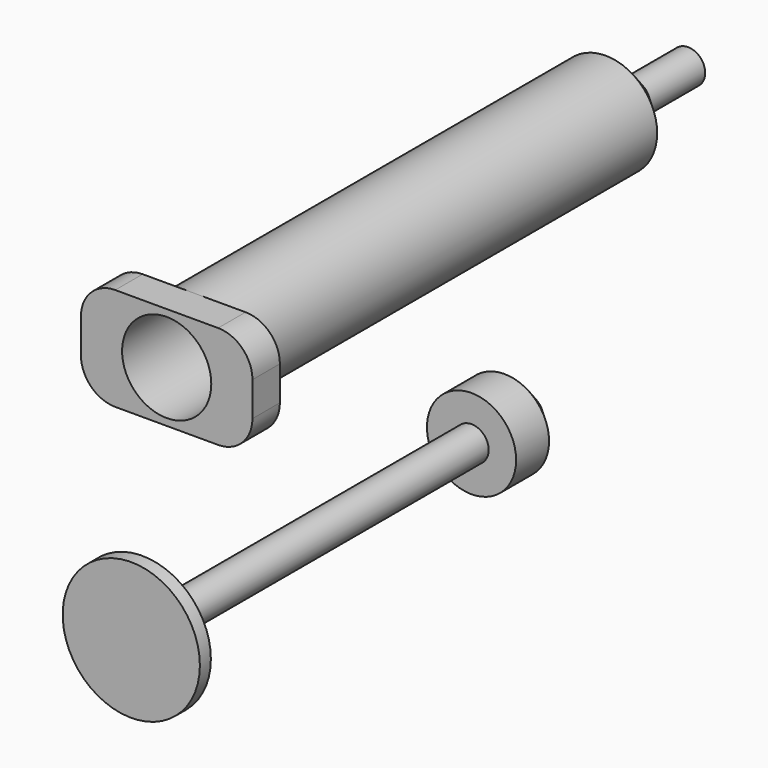
from build123d import *

# Parameters (mm, degrees)
F0_R      = 9.525
F1_DEPTH  = 101.6
F2_SIZE   = 6.35
F3_DEPTH  = 12.7
F4_T      = -1.27
F5_DEPTH  = 25.4
F6_R      = 8.255
F7_DEPTH  = 6.35
F8_R      = 6.35
F9_R      = 8.255
F10_DEPTH = 12.7
F11_R     = 3.175
F12_DEPTH = 76.2
F13_R     = 12.7
F14_DEPTH = 2.54
F15_SIZE  = 5.08


with BuildPart() as f1:
    # F0 (on Front) → F1 (new body)
    with BuildSketch(Plane.XZ):
        Circle(F0_R)
    extrude(amount=-F1_DEPTH)

    # F2
    f2_edges = [f1.edges().sort_by_distance(p)[0] for p in [
        (-9.525, 101.6, 0),
    ]]
    chamfer(f2_edges, length=F2_SIZE)

    # F3 (add): a face of the model
    f3_faces = [f1.faces().sort_by_distance(p)[0] for p in [
        (0, 101.6, 0),
    ]]
    extrude(f3_faces, amount=F3_DEPTH)

    # F4
    f4_openings = [f1.faces().sort_by_distance(p)[0] for p in [
        (0, 0, 0),
    ]]
    offset(amount=F4_T, openings=f4_openings, kind=Kind.INTERSECTION)

    # F5 (cut): a face of the model
    f5_faces = [f1.faces().sort_by_distance(p)[0] for p in [
        (0, 113.03, 0),
    ]]
    extrude(f5_faces, amount=-F5_DEPTH, mode=Mode.SUBTRACT)

    # F6 (on face) → F7 (join)
    with BuildSketch(Plane.XZ):
        with BuildLine():
            Line((0, 9.525), (-15.875, 9.525))
            Line((-15.875, 9.525), (-15.875, -9.525))
            Line((-15.875, -9.525), (0, -9.525))
            ThreePointArc((0, -9.525), (-9.525, 0), (0, 9.525))
        make_face()
        with BuildLine():
            Line((15.875, 9.525), (0, 9.525))
            ThreePointArc((0, 9.525), (6.7351920908, 6.7351920908), (9.525, 0))
            ThreePointArc((9.525, 0), (6.7351920908, -6.7351920908), (0, -9.525))
            Line((0, -9.525), (15.875, -9.525))
            Line((15.875, -9.525), (15.875, 9.525))
        make_face()
        with BuildLine():
            ThreePointArc((9.525, 0), (6.7351920908, 6.7351920908), (0, 9.525))
            ThreePointArc((0, 9.525), (-9.525, 0), (0, -9.525))
            ThreePointArc((0, -9.525), (6.7351920908, -6.7351920908), (9.525, 0))
        make_face()
        Circle(F6_R, mode=Mode.SUBTRACT)
    extrude(amount=F7_DEPTH)

    # F8
    f8_edges = [f1.edges().sort_by_distance(p)[0] for p in [
        (-15.875, -3.175, 9.525),
        (15.875, -3.175, 9.525),
        (-15.875, -3.175, -9.525),
        (15.875, -3.175, -9.525),
    ]]
    fillet(f8_edges, radius=F8_R)


with BuildPart() as f10:
    # F9 (on Front) → F10 (new body)
    with BuildSketch(Plane.XZ):
        with Locations((51.358602941, 1.7109198961)):
            Circle(F9_R)
    extrude(amount=-F10_DEPTH)

    # F11 (on face) → F12 (join)
    with BuildSketch(Plane.XZ):
        with Locations((51.358602941, 1.7109198961)):
            Circle(F11_R)
    extrude(amount=F12_DEPTH)

    # F13 (on face) → F14 (join)
    with BuildSketch(Plane.XZ.offset(76.2)):
        with Locations((51.358602941, 1.7109198961)):
            Circle(F13_R)
    extrude(amount=F14_DEPTH)

    # F15
    f15_edges = [f10.edges().sort_by_distance(p)[0] for p in [
        (43.103603, 12.7, 1.71092),
    ]]
    chamfer(f15_edges, length=F15_SIZE)


solid = Compound([f1.part, f10.part])
